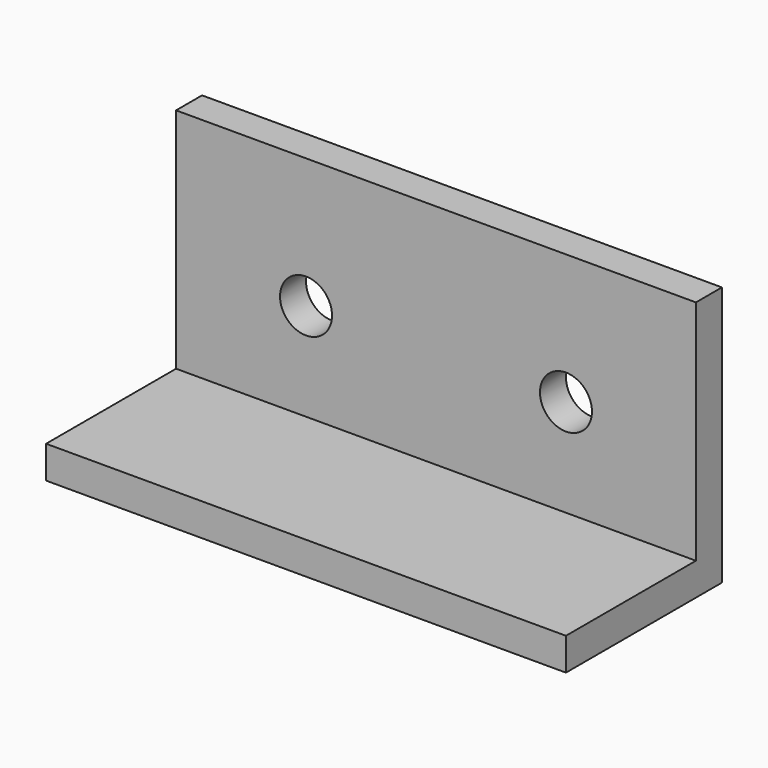
from build123d import *

# Parameters (mm, degrees)
F1_DEPTH = 50.8
F2_R     = 2.54
F3_DEPTH = 25.4


with BuildPart() as f1:
    # F0 (on Right) → F1 (new body)
    with BuildSketch(Plane.YZ):
        Polygon((-19.05, 0), (0, 0), (0, 25.4), (-3.175, 25.4), (-3.175, 3.175), (-19.05, 3.175), align=None)
    extrude(amount=F1_DEPTH)

    # F2 (on Front) → F3 (cut)
    with BuildSketch(Plane.XZ):
        with Locations((38.1, 12.7)):
            Circle(F2_R)
        with Locations((12.7, 12.7)):
            Circle(F2_R)
    extrude(amount=F3_DEPTH, mode=Mode.SUBTRACT)


solid = f1.part
